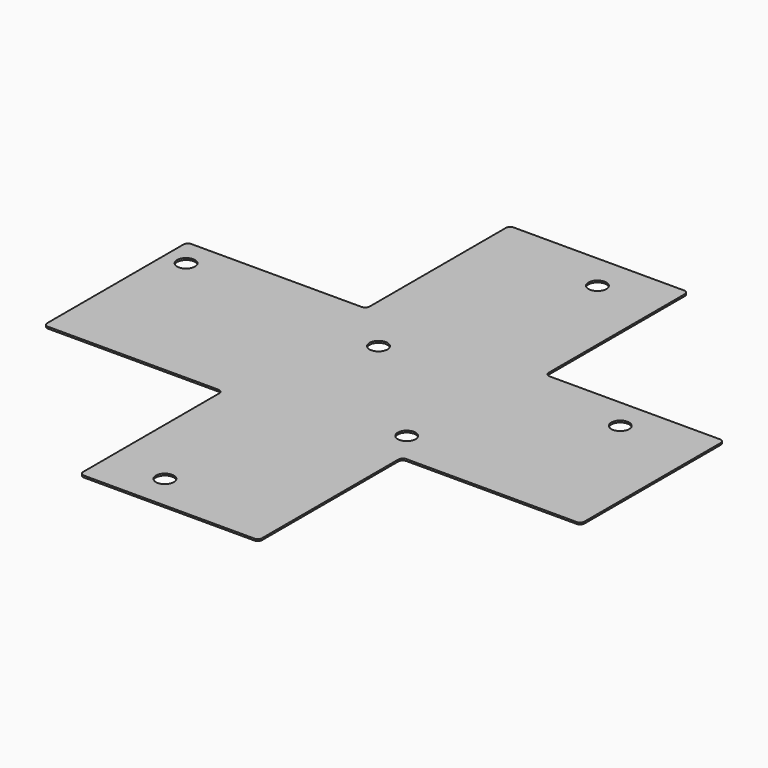
from build123d import *

# Parameters (mm, degrees)
F1_DEPTH = 2
F2_R     = 5
F4_D     = 20
F4_DEPTH = 50
F4_TIP   = 6.0086061903


with BuildPart() as f1:
    # F0 (on Top) → F1 (new body)
    with BuildSketch(Plane.XY):
        Polygon((-300, 100), (-300, -100), (-100, -100), (-100, -300), (100, -300), (100, -100), (300, -100), (300, 100), (100, 100), (100, 300), (-100, 300), (-100, 100), align=None)
    extrude(amount=F1_DEPTH)

    # F2
    f2_edges = [f1.edges().sort_by_distance(p)[0] for p in [
        (-300, -100, 1),
        (-100, -100, 1),
        (-100, -300, 1),
        (100, -300, 1),
        (-300, 100, 1),
        (-100, 300, 1),
        (100, 300, 1),
        (100, 100, 1),
        (300, 100, 1),
        (300, -100, 1),
        (-100, 100, 1),
        (100, -100, 1),
    ]]
    fillet(f2_edges, radius=F2_R)

    # F4
    with Locations(Plane(origin=(0, 0, 0), x_dir=(1, 0, 0), z_dir=(0, 0, -1))):
        with Locations((-276.0063111782, -68.7044858932), (-47.2173690796, -51.3386949897), (77.8317674994, 65.5974373221), (-36.1162610352, 260.7022225857), (211.3765329123, -65.6183883548), (30.6354723871, -259.6825659275)):
            Hole(F4_D / 2, depth=F4_DEPTH)
            with Locations((0, 0, -(F4_DEPTH + F4_TIP / 2))):  # 118° drill point
                Cone(0, F4_D / 2, F4_TIP, mode=Mode.SUBTRACT)


solid = f1.part
